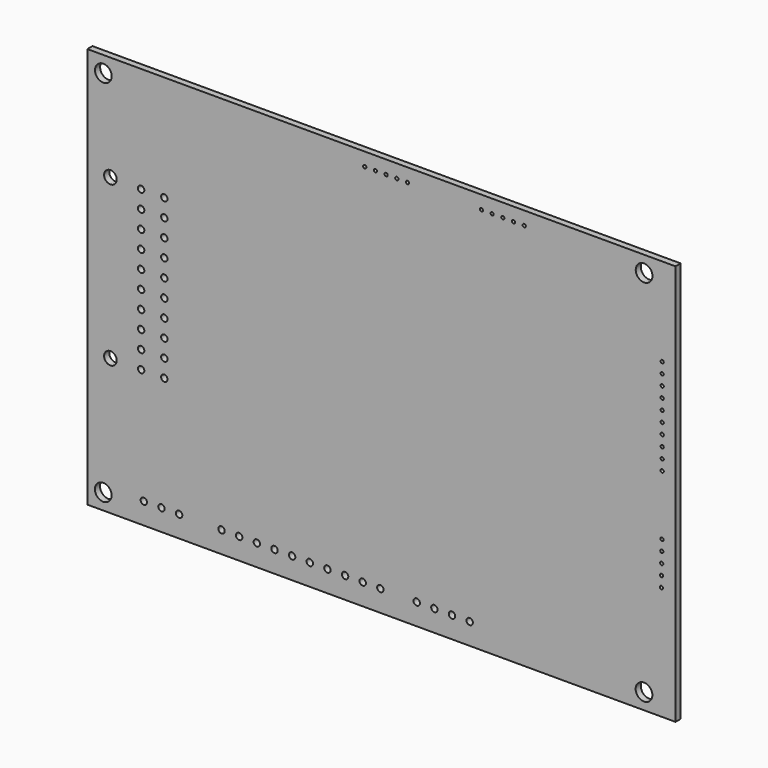
from build123d import *

# Parameters (mm, degrees)
F0_W     = 139.7
F0_H     = 95.25
F1_DEPTH = 1.524
F2_R     = 1.984375
F3_DEPTH = 25.4
F4_R     = 0.381
F4_R_2   = 0.762
F4_R_3   = 1.4986
F5_DEPTH = 1.525


with BuildPart() as f1:
    # F0 (on Front) → F1 (new body)
    with BuildSketch(Plane.XZ):
        with Locations((69.85, 47.625)):
            Rectangle(F0_W, F0_H)
    extrude(amount=F1_DEPTH)

    # F2 (on face) → F3 (cut)
    with BuildSketch(Plane.XZ.offset(1.524)):
        with Locations((3.81, 91.44)):
            Circle(F2_R)
        with Locations((132.228531, 91.44)):
            Circle(F2_R)
        with Locations((3.782545, 3.810004)):
            Circle(F2_R)
        with Locations((132.211297, 3.810004)):
            Circle(F2_R)
    extrude(amount=-F3_DEPTH, mode=Mode.SUBTRACT)

    # F4 (on face) → F5 (cut, through all)
    with BuildSketch(Plane.XZ.offset(1.524)):
        with Locations((136.525, 74.295)):
            Circle(F4_R)
        with Locations((136.525, 71.755)):
            Circle(F4_R)
        with Locations((136.525, 69.215)):
            Circle(F4_R)
        with Locations((136.525, 66.675)):
            Circle(F4_R)
        with Locations((136.525, 64.135)):
            Circle(F4_R)
        with Locations((136.525, 61.595)):
            Circle(F4_R)
        with Locations((136.525, 59.055)):
            Circle(F4_R)
        with Locations((136.525, 56.515)):
            Circle(F4_R)
        with Locations((136.525, 53.975)):
            Circle(F4_R)
        with Locations((136.525, 51.435)):
            Circle(F4_R)
        with Locations((136.479005, 37.1475)):
            Circle(F4_R)
        with Locations((136.445716, 34.607718)):
            Circle(F4_R)
        with Locations((136.412428, 32.067936)):
            Circle(F4_R)
        with Locations((136.379139, 29.528154)):
            Circle(F4_R)
        with Locations((136.34585, 26.988372)):
            Circle(F4_R)
        with Locations((103.759, 92.075)):
            Circle(F4_R)
        with Locations((101.219, 92.075)):
            Circle(F4_R)
        with Locations((98.679, 92.075)):
            Circle(F4_R)
        with Locations((96.139, 92.075)):
            Circle(F4_R)
        with Locations((93.599, 92.075)):
            Circle(F4_R)
        with Locations((76.0476, 92.075)):
            Circle(F4_R)
        with Locations((73.5076, 92.075)):
            Circle(F4_R)
        with Locations((70.9676, 92.075)):
            Circle(F4_R)
        with Locations((68.4276, 92.075)):
            Circle(F4_R)
        with Locations((65.8876, 92.075)):
            Circle(F4_R)
        with Locations((90.805, 5.08)):
            Circle(F4_R_2)
        with Locations((86.614, 5.08)):
            Circle(F4_R_2)
        with Locations((82.423, 5.08)):
            Circle(F4_R_2)
        with Locations((78.232, 5.08)):
            Circle(F4_R_2)
        with Locations((69.596, 5.08)):
            Circle(F4_R_2)
        with Locations((65.404999, 5.08)):
            Circle(F4_R_2)
        with Locations((61.213999, 5.08)):
            Circle(F4_R_2)
        with Locations((57.022999, 5.08)):
            Circle(F4_R_2)
        with Locations((52.831999, 5.08)):
            Circle(F4_R_2)
        with Locations((48.640999, 5.08)):
            Circle(F4_R_2)
        with Locations((44.449999, 5.08)):
            Circle(F4_R_2)
        with Locations((40.258998, 5.08)):
            Circle(F4_R_2)
        with Locations((36.067998, 5.08)):
            Circle(F4_R_2)
        with Locations((31.876998, 5.08)):
            Circle(F4_R_2)
        with Locations((21.79718, 5.08)):
            Circle(F4_R_2)
        with Locations((17.60618, 5.08)):
            Circle(F4_R_2)
        with Locations((13.41518, 5.08)):
            Circle(F4_R_2)
        with Locations((18.288, 32.385)):
            Circle(F4_R_2)
        with Locations((18.288, 36.576)):
            Circle(F4_R_2)
        with Locations((18.288, 40.767)):
            Circle(F4_R_2)
        with Locations((18.288, 44.958)):
            Circle(F4_R_2)
        with Locations((18.288, 49.149)):
            Circle(F4_R_2)
        with Locations((18.288, 53.34)):
            Circle(F4_R_2)
        with Locations((18.288, 57.531)):
            Circle(F4_R_2)
        with Locations((18.288, 61.722)):
            Circle(F4_R_2)
        with Locations((18.288, 65.913)):
            Circle(F4_R_2)
        with Locations((18.288, 70.104)):
            Circle(F4_R_2)
        with Locations((12.7762, 32.385)):
            Circle(F4_R_2)
        with Locations((12.7762, 36.576)):
            Circle(F4_R_2)
        with Locations((12.7762, 40.767)):
            Circle(F4_R_2)
        with Locations((12.7762, 44.958)):
            Circle(F4_R_2)
        with Locations((12.7762, 49.149)):
            Circle(F4_R_2)
        with Locations((12.7762, 53.34)):
            Circle(F4_R_2)
        with Locations((12.7762, 57.531)):
            Circle(F4_R_2)
        with Locations((12.7762, 61.722)):
            Circle(F4_R_2)
        with Locations((12.7762, 65.913)):
            Circle(F4_R_2)
        with Locations((12.7762, 70.104)):
            Circle(F4_R_2)
        with Locations((5.4864, 32.385)):
            Circle(F4_R_3)
        with Locations((5.4864, 70.231)):
            Circle(F4_R_3)
    extrude(amount=-F5_DEPTH, mode=Mode.SUBTRACT)


solid = f1.part
